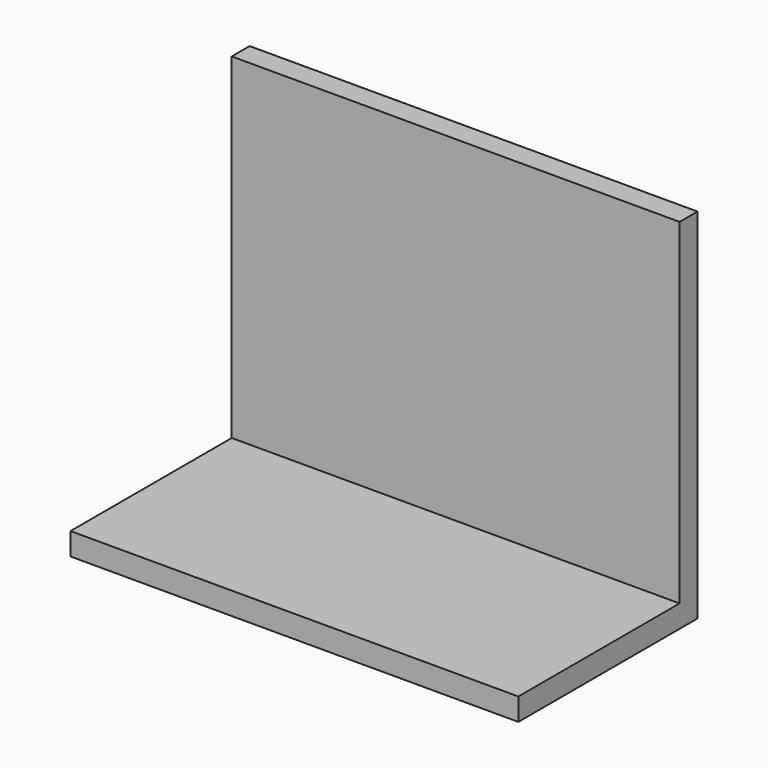
from build123d import *

# Parameters (mm, degrees)
F0_W     = 50
F0_H     = 40
F1_DEPTH = 25
F2_T     = -2.5


with BuildPart() as f1:
    # F0 (on Front) → F1 (new body)
    with BuildSketch(Plane.XZ):
        with Locations((0, 20)):
            Rectangle(F0_W, F0_H)
    extrude(amount=F1_DEPTH)

    # F2
    f2_openings = [f1.faces().sort_by_distance(p)[0] for p in [
        (0, -12.5, 40),
        (0, -25, 20),
        (25, -12.5, 20),
        (-25, -12.5, 20),
    ]]
    offset(amount=F2_T, openings=f2_openings)


solid = f1.part
